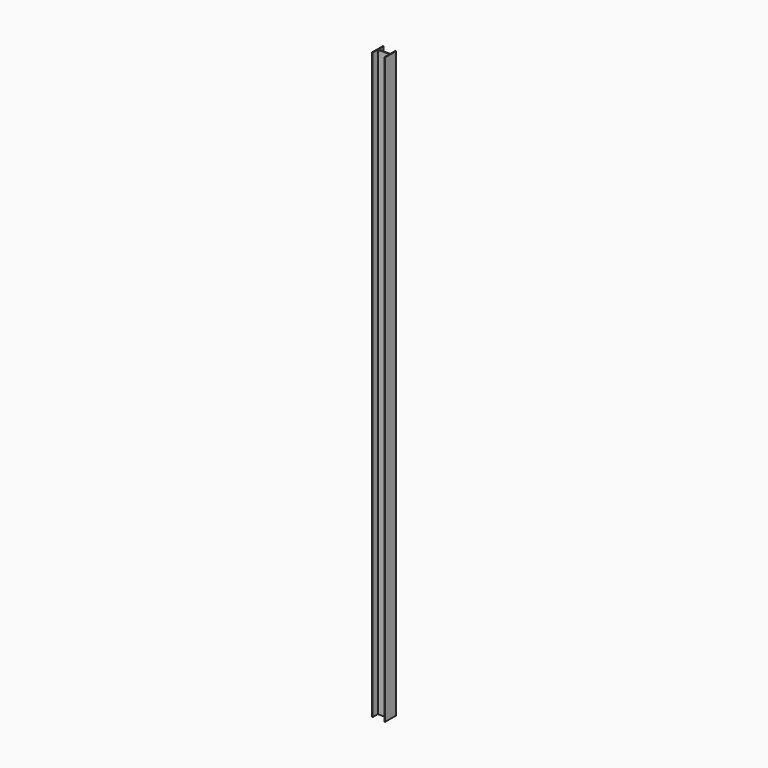
from build123d import *

# Parameters (mm, degrees)
F0_W     = 18
F0_H     = 1
F1_DEPTH = 880


with BuildPart() as f1:
    # F0 (on Top) → F1 (new body)
    with BuildSketch(Plane.XY):
        Polygon((-40.153848, 11), (-41.153848, 11), (-41.153848, -10), (-40.153848, -10), (-40.153848, 0), (-40.153848, 1), align=None)
        with Locations((-31.153848, 0.5)):
            Rectangle(F0_W, F0_H)
        Polygon((-22.153848, 11), (-22.153848, 1), (-22.153848, 0), (-22.153848, -10), (-21.153848, -10), (-21.153848, 11), align=None)
    extrude(amount=F1_DEPTH)


solid = f1.part
